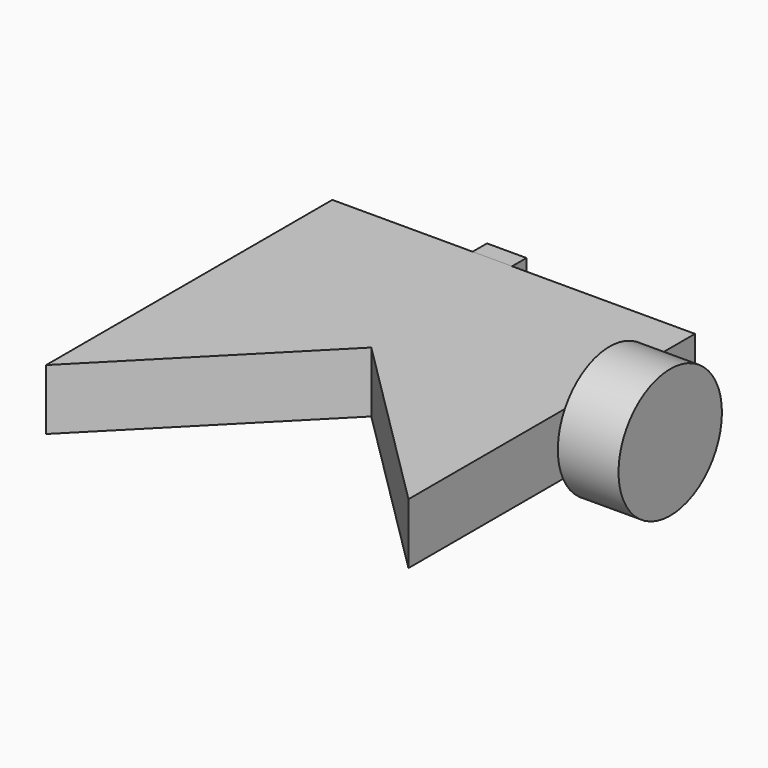
from build123d import *

# Parameters (mm, degrees)
F3_DEPTH = 25.4
F2_W     = 16.5145844221
F2_H     = 7.5223818421
F4_R     = 27.0348190112
F5_DEPTH = 25.4


with BuildPart() as f3:
    # F0 (on Top) → F3 (new body)
    with BuildSketch(Plane.XY):
        Polygon((-75.2194747329, -76.0797411203), (0, 0), (76.5220746398, -76.2212574482), (76.5220746398, 73.6268535256), (-75.2194747329, 73.6268535256), align=None)
    extrude(amount=F3_DEPTH)

    # F4 (on face) → F5 (join)
    with BuildSketch(Plane.YZ.offset(76.5220746398)):
        with Locations((28.9392322302, 11.8555948138)):
            Circle(F4_R)
    extrude(amount=F5_DEPTH)


with BuildPart() as f3b:
    # F2 (on face) → F3, piece 2 (new body)
    with BuildSketch(Plane.XY):
        with Locations((-8.2572922111, 77.3880444467)):
            Rectangle(F2_W, F2_H)
    extrude(amount=F3_DEPTH)


solid = Compound([f3.part, f3b.part])
